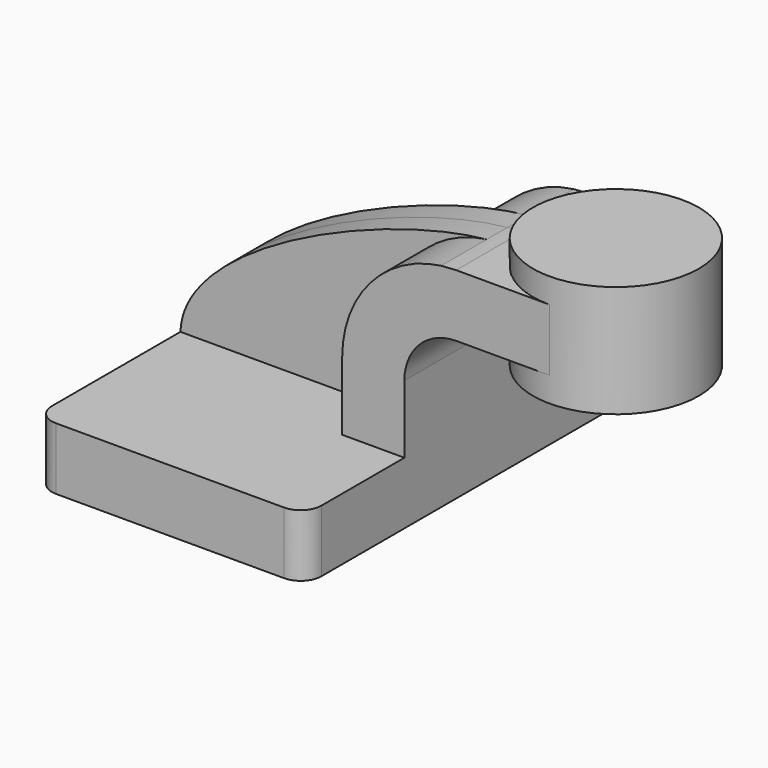
from build123d import *

# Parameters (mm, degrees)
F1_DEPTH = 63.5
F2_DEPTH = 25.4
F3_DEPTH = 7.9375
F5_R     = 6.35


with BuildPart() as f1:
    # F0 (on Front) → F1 (new body, symmetric)
    with BuildSketch(Plane.XZ):
        Polygon((22.225, 9.525), (-41.275, 9.525), (-41.275, -9.525), (41.275, -9.525), (41.275, 9.525), align=None)
    extrude(amount=F1_DEPTH, both=True)

    # F0 (on Front) → F2 (join, symmetric)
    with BuildSketch(Plane.XZ):
        with BuildLine():
            Line((22.225, 30.3276), (22.225, 9.525))
            Line((22.225, 9.525), (41.275, 9.525))
            Line((41.275, 9.525), (41.275, 30.3276))
            ThreePointArc((41.275, 30.3276), (45.92468, 41.55292), (57.15, 46.2026))
            Line((57.15, 46.2026), (60.325, 46.2026))
            Line((60.325, 46.2026), (60.325, 65.2526))
            Line((60.325, 65.2526), (57.15, 65.2526))
            add(Edge.make_bspline(
                [(52.526729, 64.94524), (54.14604, 65.1073), (55.690988, 65.21074), (57.15, 65.2526)],
                knots=[107.655692, 107.655692, 107.655692, 107.655692, 113.106348, 113.106348, 113.106348, 113.106348], degree=3))
            ThreePointArc((52.526729, 64.94524), (30.870508, 53.330729), (22.225, 30.3276))
        make_face()
        Polygon((85.725, 65.2526), (60.325, 65.2526), (60.325, 46.2026), (85.725, 46.2026), (85.725, 52.8701), align=None)
    extrude(amount=F2_DEPTH, both=True)

    # F0 (on Front) → F3 (join, symmetric)
    with BuildSketch(Plane.XZ):
        with BuildLine():
            add(Edge.make_bspline(
                [(-41.275, 9.525), (-40.448051, 35.67537), (20.543785, 61.74439), (52.526729, 64.94524)],
                knots=[0, 0, 0, 0, 107.655692, 107.655692, 107.655692, 107.655692], degree=3))
            Line((-41.275, 9.525), (22.225, 9.525))
            Line((22.225, 9.525), (22.225, 30.3276))
            ThreePointArc((22.225, 30.3276), (30.870508, 53.330729), (52.526729, 64.94524))
        make_face()
    extrude(amount=F3_DEPTH, both=True)

    # F0 (on Front) → F4 (revolve)
    with BuildSketch(Plane.XZ):
        Polygon((85.725, 67.1576), (85.725, 65.2526), (85.725, 52.8701), (85.725, 46.2026), (85.725, 38.5826), (111.125, 38.5826), (111.125, 44.2976), (111.125, 67.1576), (111.125, 72.8726), (85.725, 72.8726), align=None)
    revolve(axis=Axis((85.725, 0, 60.01385), (0, 0, 1)))

    # F5
    f5_edges = [f1.edges().sort_by_distance(p)[0] for p in [
        (41.275, -63.5, 0),
        (41.275, 63.5, 0),
        (-41.275, 63.5, 0),
        (-41.275, -63.5, 0),
    ]]
    fillet(f5_edges, radius=F5_R)


solid = f1.part
